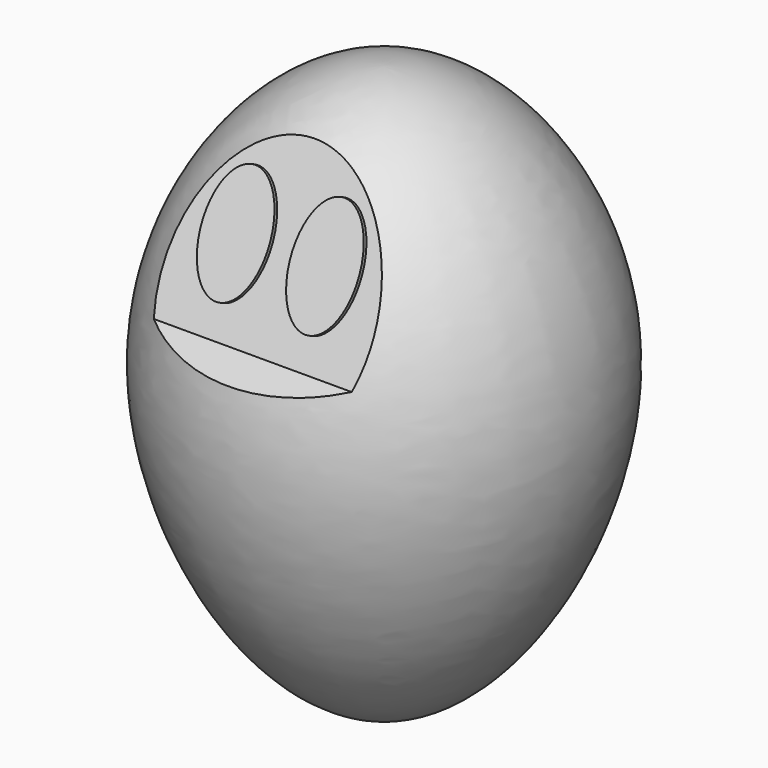
from build123d import *

# Parameters (mm, degrees)
F3_DEPTH = 150
F5_DEPTH = 3


with BuildPart() as f1:
    # F0 (on Front) → F1 (revolve)
    with BuildSketch(Plane.XZ):
        with BuildLine():
            Line((0, 200), (0, 0))
            Line((0, 0), (0, -247.2499012135))
            Line((0, -247.2499012135), (20.6375, -247.2499012135))
            add(Edge.make_bspline(
                [(20.6375, -247.2499012135), (95.2241764255, -227.6002966187), (233.2222922258, 16.8117179351), (78.1047426194, 200), (0, 200)],
                knots=[0.5217890306, 0.5217890306, 0.5217890306, 0.5217890306, 0.7592113544, 1, 1, 1, 1], degree=3))
        make_face()
    revolve(axis=Axis((0, 0, 100), (0, 0, 1)))

    # F2 (on Right) → F3 (cut, symmetric)
    with BuildSketch(Plane.YZ):
        Polygon((-57.3032423854, 200.3749907017), (-254.0391087532, -8.4938183427), (-130.9253424406, 49.829505384), align=None)
    extrude(amount=F3_DEPTH, both=True, mode=Mode.SUBTRACT)

    # F4 (on face) → F5 (join)
    with BuildSketch(Plane(origin=(0, -125.3222097281, 61.2870206255), x_dir=(1, 0, 0), z_dir=(0, -0.8983323548, 0.4393164921))):
        with BuildLine():
            add(Edge.make_bspline(
                [(-35.586040467, 11.2566831533), (10.6704291749, 11.2566831533), (-12.4578056461, 78.2218819944), (-35.586040467, 145.1870808355), (-58.714275288, 78.2218819944), (-81.842510109, 11.2566831533), (-35.586040467, 11.2566831533)],
                knots=[0, 0, 0, 2.0943951024, 2.0943951024, 4.1887902048, 4.1887902048, 6.2831853072, 6.2831853072, 6.2831853072], degree=2, weights=[1, 0.5, 1, 0.5, 1, 0.5, 1]))
        make_face()
        with BuildLine():
            add(Edge.make_bspline(
                [(35.586040467, 11.2566831533), (81.842510109, 11.2566831533), (58.714275288, 78.2218819944), (35.586040467, 145.1870808355), (12.4578056461, 78.2218819944), (-10.6704291749, 11.2566831533), (35.586040467, 11.2566831533)],
                knots=[0, 0, 0, 2.0943951024, 2.0943951024, 4.1887902048, 4.1887902048, 6.2831853072, 6.2831853072, 6.2831853072], degree=2, weights=[1, 0.5, 1, 0.5, 1, 0.5, 1]))
        make_face()
    extrude(amount=F5_DEPTH)


solid = f1.part
